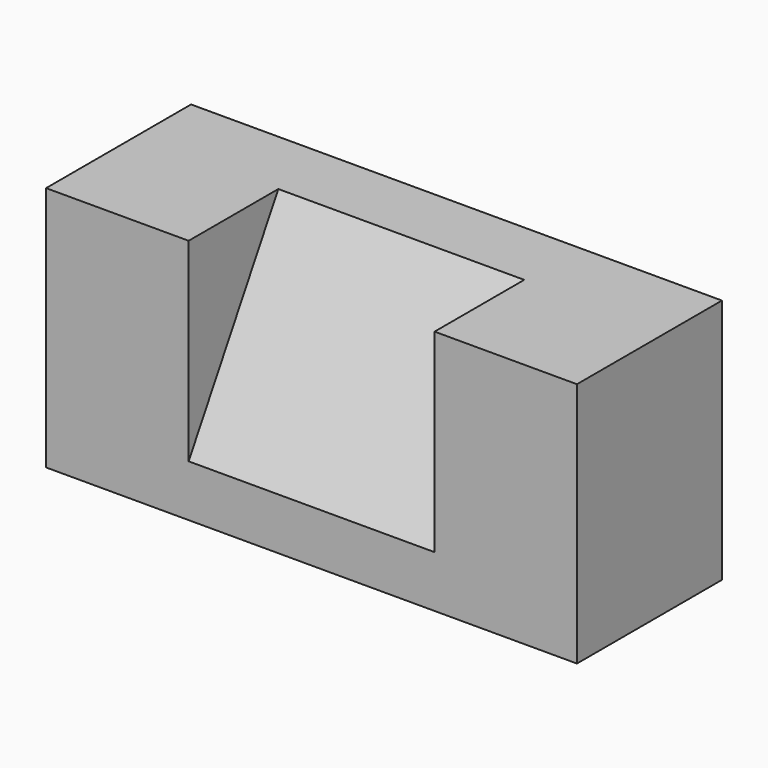
from build123d import *

# Parameters (mm, degrees)
F0_W     = 130.175
F0_H     = 60.325
F1_DEPTH = 44.45
F3_W     = 34.9023286253
F3_H     = 60.4157168418
F4_DEPTH = 44.45
F5_DEPTH = 25.4
F7_DEPTH = 60.325
F8_W     = 44.45
F8_H     = 60.325
F9_DEPTH = 34.925


with BuildPart() as f1:
    # F0 (on Front) → F1 (new body)
    with BuildSketch(Plane.XZ):
        with Locations((1.020533964, -6.2578915411)):
            Rectangle(F0_W, F0_H)
    extrude(amount=F1_DEPTH)

    # F3 (on face) → F4 (cut)
    with BuildSketch(Plane.XZ.offset(44.45)):
        with Locations((48.6795557663, -6.1232140288)):
            Rectangle(F3_W, F3_H)
    extrude(amount=-F4_DEPTH, mode=Mode.SUBTRACT)

    # F5 (cut): a face of the model
    f5_faces = [f1.faces().sort_by_distance(p)[0] for p in [
        (48.6682127088, -22.225, -36.3310724497),
    ]]
    extrude(f5_faces, amount=-F5_DEPTH, mode=Mode.SUBTRACT)

    # F6 (on face) → F7 (cut)
    with BuildSketch(Plane.YZ.offset(31.2283914536)):
        Polygon((-44.45, 23.9046084589), (-44.45, -23.7203915411), (-16.9536934298, 23.9046084589), align=None)
    extrude(amount=-F7_DEPTH, mode=Mode.SUBTRACT)

    # F8 (on face) → F9 (join)
    with BuildSketch(Plane.YZ.offset(31.2283914536)):
        with Locations((-22.225, -6.2578915411)):
            Rectangle(F8_W, F8_H)
    extrude(amount=F9_DEPTH)


solid = f1.part
